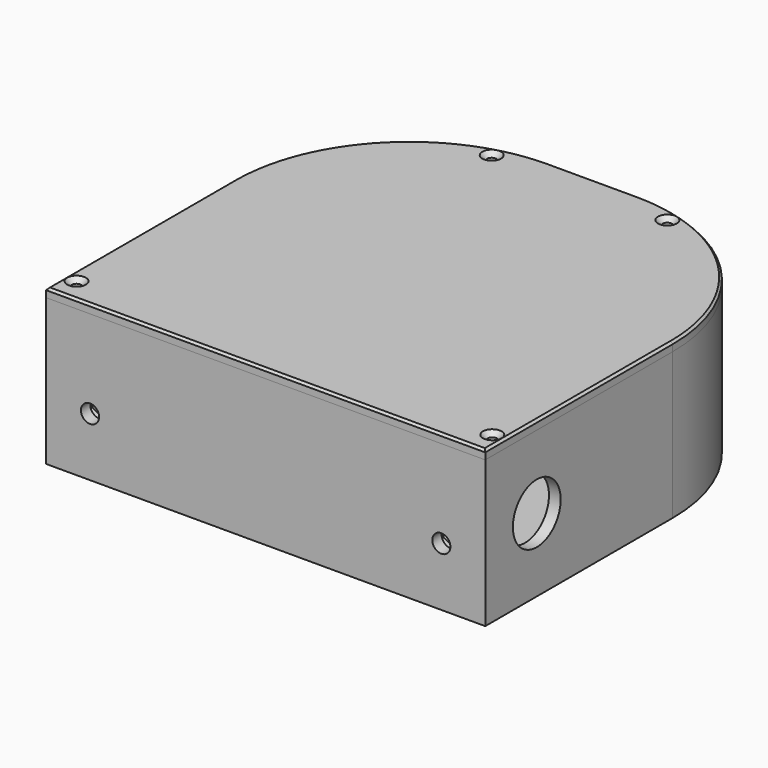
from build123d import *

# Parameters (mm, degrees)
PAD_DEPTH            = 50
POCKET_DEPTH         = 45
SKETCH002_R          = 3
PAD001_DEPTH         = 3
SKETCH003_R          = 1.45
SKETCH003_R_2        = 3.1
SKETCH003_R_3        = 6.25
POCKET001_DEPTH      = 5.001
POCKET001_DEPTH_BACK = -45.001
POCKET002_DEPTH      = 3
SKETCH005_R          = 11.25
SKETCH005_R_2        = 0.95
SKETCH005_R_3        = 5
POCKET003_DEPTH      = 6
SKETCH006_R          = 3.1
POCKET004_DEPTH      = 10
POCKET005_DEPTH      = 4
POCKET006_DEPTH      = 2
SKETCH013_R          = 25.5
SKETCH013_R_2        = 17
POCKET009_DEPTH      = 2
SKETCH014_R          = 10.2
POCKET010_DEPTH      = 6
SKETCH015_R          = 4.75
POCKET011_DEPTH      = 6
PAD002_DEPTH         = 3
PAD003_DEPTH         = 2
SKETCH011_R          = 1.6
POCKET007_DEPTH      = 5.001
POCKET008_DEPTH      = 3
CHAMFER_SIZE         = 1.6
CHAMFER001_SIZE      = 0.75


with BuildPart() as body:
    # Sketch → Pad (new body)
    with BuildSketch(Plane.XY):
        with BuildLine():
            ThreePointArc((-15, 140), (-57.426407, 122.426407), (-75, 80))
            Line((-75, 80), (-75, 0))
            Line((-75, 0), (75, 0))
            Line((75, 0), (75, 80))
            ThreePointArc((75, 80), (57.426407, 122.426407), (15, 140))
            Line((15, 140), (-15, 140))
        make_face()
    extrude(amount=PAD_DEPTH)

    # Sketch001 (on Face8 of Pad) → Pocket (cut)
    with BuildSketch(Plane.XY.offset(50)):
        with BuildLine():
            ThreePointArc((-32.854619, 133.077421), (-60.474491, 112.681351), (-71, 80))
            Line((-71, 80), (-71, 11))
            ThreePointArc((-68, 8), (-68.87868, 10.12132), (-71, 11))
            Line((68, 8), (-68, 8))
            ThreePointArc((71, 11), (68.87868, 10.12132), (68, 8))
            Line((71, 11), (71, 80))
            ThreePointArc((71, 80), (60.474491, 112.681351), (32.854619, 133.077421))
            ThreePointArc((27.078524, 134.681892), (29.197068, 131.109446), (32.854619, 133.077421))
            ThreePointArc((27.078524, 134.681892), (21.075116, 135.669498), (15, 136))
            Line((15, 136), (-15, 136))
            ThreePointArc((-15, 136), (-21.075116, 135.669498), (-27.078524, 134.681892))
            ThreePointArc((-32.854619, 133.077421), (-29.197068, 131.109446), (-27.078524, 134.681892))
        make_face()
    extrude(amount=-POCKET_DEPTH, mode=Mode.SUBTRACT)

    # Sketch002 (on Face21 of Pocket) → Pad001 (join)
    with BuildSketch(Plane.XY.offset(5)):
        with Locations((0, 50)):
            Circle(SKETCH002_R)
        with Locations((-66, 27)):
            Circle(SKETCH002_R)
        with Locations((66, 27)):
            Circle(SKETCH002_R)
        with Locations((-66, 80)):
            Circle(SKETCH002_R)
        with Locations((-48, 89)):
            Circle(SKETCH002_R)
        with Locations((48, 89)):
            Circle(SKETCH002_R)
        with Locations((66, 80)):
            Circle(SKETCH002_R)
    extrude(amount=PAD001_DEPTH)

    # Sketch003 (on Face21 of Pad001) → Pocket001 (cut, two sides)
    with BuildSketch(Plane.XY.offset(5)) as pocket001_sk:
        with Locations((0, 50)):
            Circle(SKETCH003_R)
        with Locations((-66, 27)):
            Circle(SKETCH003_R)
        with Locations((-66, 80)):
            Circle(SKETCH003_R)
        with Locations((-48, 89)):
            Circle(SKETCH003_R)
        with Locations((48, 89)):
            Circle(SKETCH003_R)
        with Locations((66, 80)):
            Circle(SKETCH003_R)
        with Locations((66, 27)):
            Circle(SKETCH003_R)
        with Locations((-25, 85)):
            Circle(SKETCH003_R_2)
        with Locations((25, 85)):
            Circle(SKETCH003_R_2)
        with Locations((-25, 35)):
            Circle(SKETCH003_R_2)
        with Locations((25, 35)):
            Circle(SKETCH003_R_2)
        with Locations((-71, 8)):
            Circle(SKETCH003_R)
        with Locations((71, 8)):
            Circle(SKETCH003_R)
        with Locations((-30, 134)):
            Circle(SKETCH003_R)
        with Locations((30, 134)):
            Circle(SKETCH003_R)
        with Locations((0, 16)):
            Circle(SKETCH003_R_3)
        with Locations((25, 16)):
            Circle(SKETCH003_R_3)
        with Locations((-25, 16)):
            Circle(SKETCH003_R_3)
    extrude(amount=-POCKET001_DEPTH, mode=Mode.SUBTRACT)
    extrude(pocket001_sk.sketch, amount=-POCKET001_DEPTH_BACK, mode=Mode.SUBTRACT)

    # Sketch004 (on Face40 of Pocket001) → Pocket002 (cut)
    with BuildSketch(Plane.XY.offset(5)):
        Polygon((-19.4, 38.233162), (-25, 41.466323), (-30.6, 38.233162), (-30.6, 31.766838), (-25, 28.533677), (-19.4, 31.766838), align=None)
        Polygon((30.6, 31.766838), (30.6, 38.233162), (25, 41.466323), (19.4, 38.233162), (19.4, 31.766838), (25, 28.533677), align=None)
        Polygon((-19.4, 81.766838), (-19.4, 88.233162), (-25, 91.466323), (-30.6, 88.233162), (-30.6, 81.766838), (-25, 78.533677), align=None)
        Polygon((30.6, 81.766838), (30.6, 88.233162), (25, 91.466323), (19.4, 88.233162), (19.4, 81.766838), (25, 78.533677), align=None)
        with BuildLine():
            ThreePointArc((-25, 24), (-33, 16), (-25, 8))
            Line((-25, 8), (25, 8))
            ThreePointArc((25, 8), (33, 16), (25, 24))
            Line((25, 24), (-25, 24))
        make_face()
    extrude(amount=-POCKET002_DEPTH, mode=Mode.SUBTRACT)

    # Sketch005 (on Face2 of Pocket002) → Pocket003 (cut)
    with BuildSketch(Plane(origin=(0, 140, 0), x_dir=(-1, 0, 0), z_dir=(0, 1, 0))):
        with Locations((0, 25)):
            Circle(SKETCH005_R)
        with Locations((-16.5, 41.5)):
            Circle(SKETCH005_R_2)
        with Locations((16.5, 41.5)):
            Circle(SKETCH005_R_2)
        with Locations((-16.5, 8.5)):
            Circle(SKETCH005_R_2)
        with Locations((16.5, 8.5)):
            Circle(SKETCH005_R_2)
        with Locations((21, 25)):
            Circle(SKETCH005_R_3)
    extrude(amount=-POCKET003_DEPTH, mode=Mode.SUBTRACT)

    # Sketch006 (on Face11 of Pocket003) → Pocket004 (cut)
    with BuildSketch(Plane.XZ):
        with Locations((-60, 20)):
            Circle(SKETCH006_R)
        with Locations((60, 20)):
            Circle(SKETCH006_R)
    extrude(amount=-POCKET004_DEPTH, mode=Mode.SUBTRACT)

    # Sketch007 (on Face37 of Pocket004) → Pocket005 (cut)
    with BuildSketch(Plane(origin=(0, 8, 0), x_dir=(-1, 0, 0), z_dir=(0, 1, 0))):
        Polygon((-60, 13.533677), (-54.4, 16.766838), (-54.4, 23.233162), (-60, 26.466323), (-65.6, 23.233162), (-65.6, 16.766838), align=None)
        Polygon((65.6, 16.766838), (65.6, 23.233162), (60, 26.466323), (54.4, 23.233162), (54.4, 16.766838), (60, 13.533677), align=None)
    extrude(amount=-POCKET005_DEPTH, mode=Mode.SUBTRACT)

    # Sketch008 (on Face4 of Pocket005) → Pocket006 (cut)
    with BuildSketch(Plane.XY.offset(50)):
        with BuildLine():
            ThreePointArc((-15, 136), (-54.59798, 119.59798), (-71, 80))
            Line((-71, 80), (-71, 8))
            Line((-71, 8), (71, 8))
            Line((71, 8), (71, 80))
            ThreePointArc((71, 80), (54.59798, 119.59798), (15, 136))
            Line((-15, 136), (15, 136))
        make_face()
    extrude(amount=-POCKET006_DEPTH, mode=Mode.SUBTRACT)

    # Sketch013 (on Face2 of Pocket006) → Pocket009 (cut)
    with BuildSketch(Plane(origin=(0, 140, 0), x_dir=(-1, 0, 0), z_dir=(0, 1, 0))):
        with Locations((0, 25)):
            Circle(SKETCH013_R)
        with Locations((0, 25)):
            Circle(SKETCH013_R_2, mode=Mode.SUBTRACT)
    extrude(amount=-POCKET009_DEPTH, mode=Mode.SUBTRACT)

    # Sketch014 (on Face14 of Pocket009) → Pocket010 (cut)
    with BuildSketch(Plane.YZ.offset(75)):
        with Locations((22, 25)):
            Circle(SKETCH014_R)
    extrude(amount=-POCKET010_DEPTH, mode=Mode.SUBTRACT)

    # Sketch015 (on Face3 of Pocket010) → Pocket011 (cut)
    with BuildSketch(Plane(origin=(-75, 0, 0), x_dir=(0, -1, 0), z_dir=(-1, 0, 0))):
        with Locations((-17, 25)):
            Circle(SKETCH015_R)
    extrude(amount=-POCKET011_DEPTH, mode=Mode.SUBTRACT)


with BuildPart() as top:
    # Sketch009 → Pad002 (new body)
    with BuildSketch(Plane.XY):
        with BuildLine():
            ThreePointArc((-15, 140), (-57.426407, 122.426407), (-75, 80))
            Line((-75, 80), (-75, 0))
            Line((-75, 0), (75, 0))
            Line((75, 0), (75, 80))
            ThreePointArc((75, 80), (57.426407, 122.426407), (15, 140))
            Line((-15, 140), (15, 140))
        make_face()
    extrude(amount=PAD002_DEPTH)

    # Sketch010 (on Face7 of Pad002) → Pad003 (join)
    with BuildSketch(Plane(origin=(0, 0, 0), x_dir=(1, 0, 0), z_dir=(0, 0, -1))):
        with BuildLine():
            ThreePointArc((-70.5, -80), (-54.244426, -119.244426), (-15, -135.5))
            Line((-15, -135.5), (15, -135.5))
            ThreePointArc((15, -135.5), (54.244426, -119.244426), (70.5, -80))
            Line((70.5, -8.5), (70.5, -80))
            Line((-70.5, -8.5), (70.5, -8.5))
            Line((-70.5, -80), (-70.5, -8.5))
        make_face()
    extrude(amount=PAD003_DEPTH)

    # Sketch011 (on Face5 of Pad003) → Pocket007 (cut, through all)
    with BuildSketch(Plane.XY.offset(3)):
        with Locations((-71, 8)):
            Circle(SKETCH011_R)
        with Locations((71, 8)):
            Circle(SKETCH011_R)
        with Locations((-30, 134)):
            Circle(SKETCH011_R)
        with Locations((30, 134)):
            Circle(SKETCH011_R)
    extrude(amount=-POCKET007_DEPTH, mode=Mode.SUBTRACT)

    # Sketch012 (on Face21 of Pocket007) → Pocket008 (cut)
    with BuildSketch(Plane(origin=(0, 0, -2), x_dir=(1, 0, 0), z_dir=(0, 0, -1))):
        with BuildLine():
            ThreePointArc((-68.5, -80), (-52.830213, -117.830213), (-15, -133.5))
            Line((-15, -133.5), (15, -133.5))
            ThreePointArc((15, -133.5), (52.830213, -117.830213), (68.5, -80))
            Line((68.5, -10.5), (68.5, -80))
            Line((-68.5, -10.5), (68.5, -10.5))
            Line((-68.5, -80), (-68.5, -10.5))
        make_face()
    extrude(amount=-POCKET008_DEPTH, mode=Mode.SUBTRACT)

    # Chamfer
    chamfer_edges = [top.edges().sort_by_distance(p)[0] for p in [
        (-72.6, 8, 3),
        (-31.6, 134, 3),
        (28.4, 134, 3),
        (69.4, 8, 3),
    ]]
    chamfer(chamfer_edges, length=CHAMFER_SIZE)

    # Chamfer001
    chamfer001_edges = [top.edges().sort_by_distance(p)[0] for p in [
        (57.426407, 122.426407, 3),
        (75, 40, 3),
        (0, 140, 3),
        (-57.426407, 122.426407, 3),
        (-75, 40, 3),
        (0, 0, 3),
    ]]
    chamfer(chamfer001_edges, length=CHAMFER001_SIZE)


with BuildPart() as top_1:
    # Body001 placement: moved
    add(top.part.moved(Location((0, 0, 50))))


solid = Compound([body.part, top_1.part])
